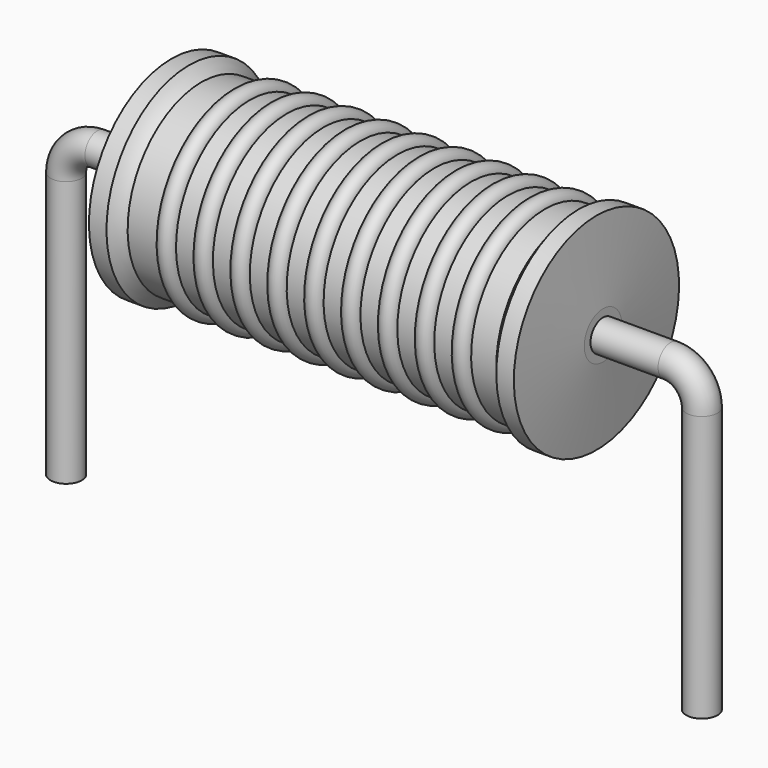
from build123d import *

# Parameters (mm, degrees)
SKETCH_R = 0.25


with BuildPart() as revolution:
    # Sketch002 → Revolution (revolve)
    with BuildSketch(Plane.XZ):
        with BuildLine():
            Line((1.685, 3.4), (1.965, 3.4))
            ThreePointArc((1.965, 3.4), (2.055554, 3.302943), (2.163, 3.225))
            Line((2.163, 3.225), (8.055, 3.225))
            ThreePointArc((8.055, 3.225), (8.134018, 3.305286), (8.195, 3.4))
            Line((8.195, 3.4), (8.475, 3.4))
            ThreePointArc((8.58, 2.125), (8.52839, 2.762573), (8.475, 3.4))
            Line((8.58, 1.75), (8.58, 2.125))
            Line((1.58, 1.75), (8.58, 1.75))
            Line((1.58, 1.75), (1.58, 2.125))
            ThreePointArc((1.685, 3.4), (1.63161, 2.762573), (1.58, 2.125))
        make_face()
    revolve(axis=Axis((1.58, 0, 1.75), (1, 0, 0)))


with BuildPart() as sweep_body:
    # Sweep: sweep along a path in Sketch001
    with BuildLine(Plane.XZ) as sweep_path:
        Line((0, -3), (0, 1.25))
        ThreePointArc((0, 1.25), (0.146443, 1.60355), (0.49999, 1.75))
        Line((0.49999, 1.75), (9.66, 1.75))
        ThreePointArc((9.66, 1.75), (10.013553, 1.603553), (10.16, 1.25))
        Line((10.16, 1.25), (10.16, -3))
    # Sketch → Sweep (sweep)
    with BuildSketch(Plane.XY.offset(-2)):
        Circle(SKETCH_R)
    sweep(path=sweep_path.line)


with BuildPart() as revolution001:
    # Sketch003 → Revolution001 (revolve)
    with BuildSketch(Plane.XZ):
        with BuildLine():
            ThreePointArc((2.939474, 3.197), (2.792105, 3.344368), (2.644737, 3.197))
            Line((2.35, 3.197), (2.644737, 3.197))
            Line((2.35, 3.197), (2.35, 2.867))
            Line((2.35, 2.867), (7.95, 2.867))
            Line((7.95, 2.867), (7.95, 3.197))
            Line((7.655263, 3.197), (7.95, 3.197))
            ThreePointArc((7.655263, 3.197), (7.507895, 3.344368), (7.360526, 3.197))
            Line((7.065789, 3.197), (7.360526, 3.197))
            ThreePointArc((7.065789, 3.197), (6.918421, 3.344368), (6.771053, 3.197))
            Line((6.476316, 3.197), (6.771053, 3.197))
            ThreePointArc((6.476316, 3.197), (6.328947, 3.344368), (6.181579, 3.197))
            Line((5.886842, 3.197), (6.181579, 3.197))
            ThreePointArc((5.886842, 3.197), (5.739474, 3.344368), (5.592105, 3.197))
            Line((5.297368, 3.197), (5.592105, 3.197))
            ThreePointArc((5.297368, 3.197), (5.15, 3.344368), (5.002632, 3.197))
            Line((4.707895, 3.197), (5.002632, 3.197))
            ThreePointArc((4.707895, 3.197), (4.560526, 3.344368), (4.413158, 3.197))
            Line((4.118421, 3.197), (4.413158, 3.197))
            ThreePointArc((4.118421, 3.197), (3.971053, 3.344368), (3.823684, 3.197))
            Line((3.528947, 3.197), (3.823684, 3.197))
            ThreePointArc((3.528947, 3.197), (3.381579, 3.344368), (3.234211, 3.197))
            Line((2.939474, 3.197), (3.234211, 3.197))
        make_face()
    revolve(axis=Axis((1.755, 0, 1.75), (1, 0, 0)))


solid = Compound([revolution.part, sweep_body.part, revolution001.part])
